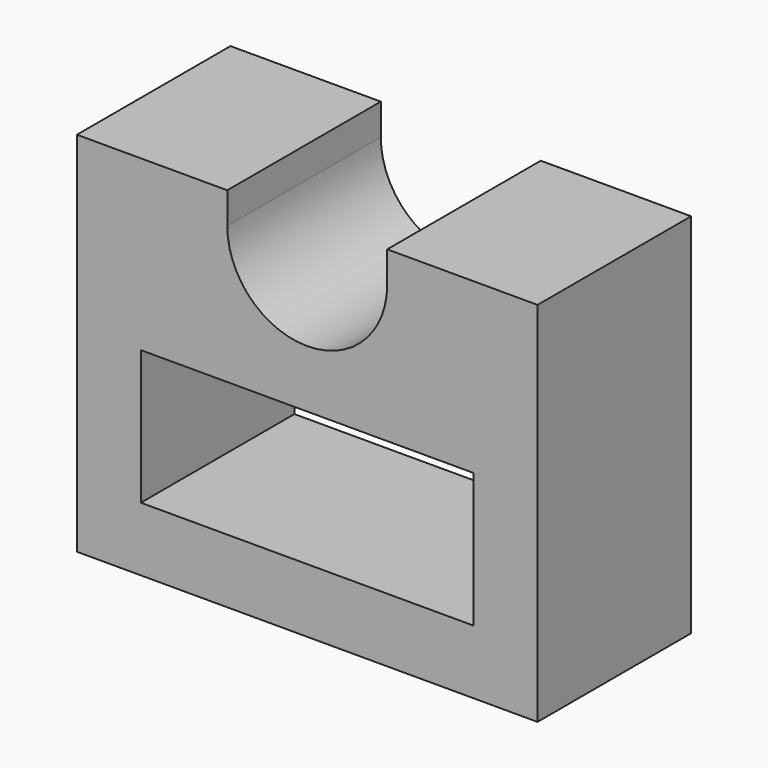
from build123d import *

# Parameters (mm, degrees)
F0_W     = 10.4
F0_H     = 4.2
F1_DEPTH = 6


with BuildPart() as f1:
    # F0 (on Front) → F1 (new body)
    with BuildSketch(Plane.XZ):
        with BuildLine():
            Line((-2, 6), (-2, -2))
            Line((-2, -2), (12.4, -2))
            Line((12.4, -2), (12.4, 6))
            Line((12.4, 6), (12.4, 8.5))
            Line((12.4, 8.5), (12.4, 9.47713))
            Line((12.4, 9.47713), (7.7, 9.47713))
            Line((7.7, 9.47713), (7.7, 8.5))
            ThreePointArc((7.7, 8.5), (5.2, 6), (2.7, 8.5))
            Line((2.7, 8.5), (2.7, 9.47713))
            Line((2.7, 9.47713), (-2, 9.47713))
            Line((-2, 9.47713), (-2, 8.5))
            Line((-2, 8.5), (-2, 6))
        make_face()
        with Locations((5.2, 2.1)):
            Rectangle(F0_W, F0_H, mode=Mode.SUBTRACT)
    extrude(amount=F1_DEPTH)


solid = f1.part
